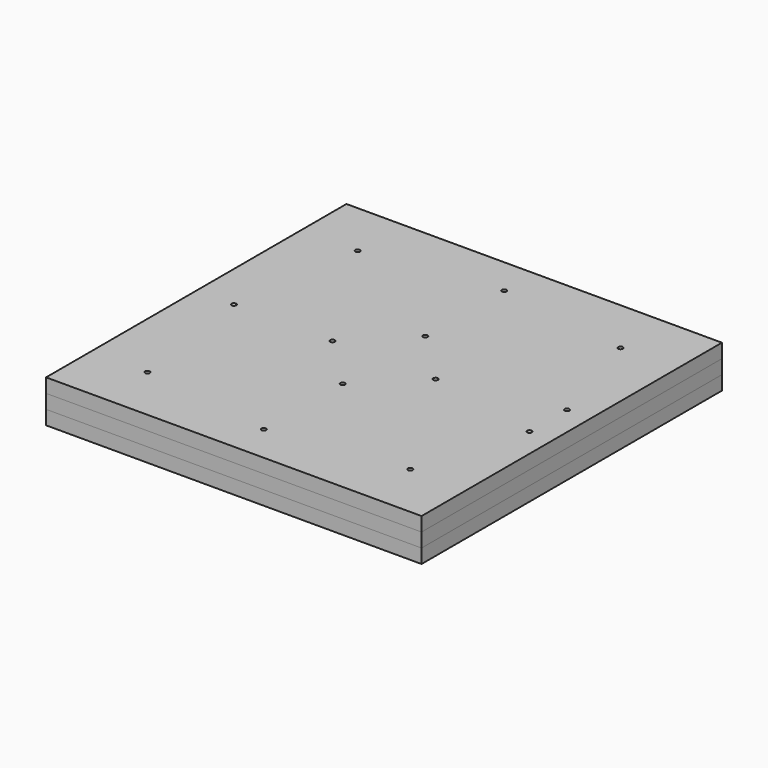
from build123d import *

# Parameters (mm, degrees)
F0_W          = 508
F0_H          = 508
F1_DEPTH      = 19.05
F2_W          = 508
F2_H          = 508
F2_R          = 177.8
F3_DEPTH      = 19.05
F2_R_2        = 85.725
F5_DEPTH      = 19.05
F7_W          = 508
F7_H          = 508
F8_DEPTH      = 19.05
F6_R          = 3.175
F9_DEPTH      = 25.4
F9_DEPTH_BACK = 44.45
F10_DEPTH     = 50.8
F11_R         = 4.7625
F12_DEPTH     = 19.05


with BuildPart() as f1:
    # F0 (on Top) → F1 (new body)
    with BuildSketch(Plane.XY):
        Rectangle(F0_W, F0_H)
    extrude(amount=F1_DEPTH)


with BuildPart() as f3:
    # F2 (on face) → F3 (new body)
    with BuildSketch(Plane.XY.offset(19.05)):
        Rectangle(F2_W, F2_H)
        Circle(F2_R, mode=Mode.SUBTRACT)
    extrude(amount=F3_DEPTH)

    # F4 (on face) → F5 (cut)
    with BuildSketch(Plane.XY.offset(38.1)):
        with BuildLine():
            Line((-165.1, 152.4), (-165.1, 65.9911357684))
            ThreePointArc((-165.1, 65.9911357684), (-125.723585695, 125.723585695), (-65.9911357684, 165.1))
            Line((-65.9911357684, 165.1), (-152.4, 165.1))
            ThreePointArc((-152.4, 165.1), (-161.3802561211, 161.3802561211), (-165.1, 152.4))
        make_face()
        with BuildLine():
            ThreePointArc((65.9911357684, 165.1), (125.723585695, 125.723585695), (165.1, 65.9911357684))
            Line((165.1, 65.9911357684), (165.1, 152.4))
            ThreePointArc((165.1, 152.4), (161.3802561211, 161.3802561211), (152.4, 165.1))
            Line((152.4, 165.1), (65.9911357684, 165.1))
        make_face()
        with BuildLine():
            Line((65.9911357684, -165.1), (152.4, -165.1))
            ThreePointArc((152.4, -165.1), (161.3802561211, -161.3802561211), (165.1, -152.4))
            Line((165.1, -152.4), (165.1, -65.9911357684))
            ThreePointArc((165.1, -65.9911357684), (125.723585695, -125.723585695), (65.9911357684, -165.1))
        make_face()
        with BuildLine():
            Line((-152.4, -165.1), (-65.9911357684, -165.1))
            ThreePointArc((-65.9911357684, -165.1), (-125.723585695, -125.723585695), (-165.1, -65.9911357684))
            Line((-165.1, -65.9911357684), (-165.1, -152.4))
            ThreePointArc((-165.1, -152.4), (-161.3802561211, -161.3802561211), (-152.4, -165.1))
        make_face()
        with BuildLine():
            ThreePointArc((177.8, 0), (174.5961339778, -33.6010416505), (165.1, -65.9911357684))
            Line((165.1, -65.9911357684), (190.5, -65.9911357684))
            ThreePointArc((190.5, -65.9911357684), (199.4802561211, -62.2713918894), (203.2, -53.2911357684))
            Line((203.2, -53.2911357684), (203.2, 53.2911357684))
            ThreePointArc((203.2, 53.2911357684), (199.4802561211, 62.2713918894), (190.5, 65.9911357684))
            Line((190.5, 65.9911357684), (165.1, 65.9911357684))
            ThreePointArc((165.1, 65.9911357684), (174.5961339778, 33.6010416505), (177.8, 0))
        make_face()
    extrude(amount=-F5_DEPTH, mode=Mode.SUBTRACT)


with BuildPart() as f3b:
    # F2 (on face) → F3, piece 2 (new body)
    with BuildSketch(Plane.XY.offset(19.05)):
        Circle(F2_R_2)
    extrude(amount=F3_DEPTH)


with BuildPart() as f8:
    # F7 (on face) → F8 (new body)
    with BuildSketch(Plane.XY.offset(38.1)):
        Rectangle(F7_W, F7_H)
    extrude(amount=F8_DEPTH)


with BuildPart() as f9_tool:
    # F6 (on face) → F9 (new body, two sides)
    with BuildSketch(Plane.XY.offset(38.1)) as f9_sk:
        with Locations((177.8, -177.8)):
            Circle(F6_R)
        with Locations((222.25, -31.75)):
            Circle(F6_R)
        with Locations((222.25, 31.75)):
            Circle(F6_R)
        with Locations((177.8, 177.8)):
            Circle(F6_R)
        with Locations((0, 203.2)):
            Circle(F6_R)
        with Locations((-177.8, 177.8)):
            Circle(F6_R)
        with Locations((-203.2, 0)):
            Circle(F6_R)
        with Locations((-177.8, -177.8)):
            Circle(F6_R)
        with Locations((0, -203.2)):
            Circle(F6_R)
        with Locations((0, -69.85)):
            Circle(F6_R)
        with Locations((-69.85, 0)):
            Circle(F6_R)
        with Locations((0, 69.85)):
            Circle(F6_R)
        with Locations((69.85, 0)):
            Circle(F6_R)
    extrude(amount=F9_DEPTH)
    extrude(f9_sk.sketch, amount=-F9_DEPTH_BACK)


with BuildPart() as f1_1:
    add(f1.part)

    # F9: cut by f9_tool
    add(f9_tool.part, mode=Mode.SUBTRACT)


with BuildPart() as f3_1:
    add(f3.part)

    # F9: cut by f9_tool
    add(f9_tool.part, mode=Mode.SUBTRACT)


with BuildPart() as f3b_1:
    add(f3b.part)

    # F9: cut by f9_tool
    add(f9_tool.part, mode=Mode.SUBTRACT)


with BuildPart() as f8_1:
    add(f8.part)

    # F9: cut by f9_tool
    add(f9_tool.part, mode=Mode.SUBTRACT)


with BuildPart() as f10_tool:
    # F6 (on face) → F10 (new body)
    with BuildSketch(Plane.XY.offset(38.1)):
        Circle(F6_R)
    extrude(amount=-F10_DEPTH)


with BuildPart() as f1_2:
    add(f1_1.part)

    # F10: cut by f10_tool
    add(f10_tool.part, mode=Mode.SUBTRACT)

    # F11 (on face) → F12 (join)
    with BuildSketch(Plane.XY.offset(19.05)):
        with Locations((-139.7, 139.7)):
            Circle(F11_R)
        with Locations((-139.7, -139.7)):
            Circle(F11_R)
        with Locations((139.7, -139.7)):
            Circle(F11_R)
        with Locations((139.7, 139.7)):
            Circle(F11_R)
        with Locations((190.5, 50.8)):
            Circle(F11_R)
        with Locations((190.5, 31.75)):
            Circle(F11_R)
        with Locations((190.5, 12.7)):
            Circle(F11_R)
        with Locations((190.5, -12.7)):
            Circle(F11_R)
        with Locations((190.5, -31.75)):
            Circle(F11_R)
        with Locations((190.5, -50.8)):
            Circle(F11_R)
    extrude(amount=F12_DEPTH)


with BuildPart() as f3b_2:
    add(f3b_1.part)

    # F10: cut by f10_tool
    add(f10_tool.part, mode=Mode.SUBTRACT)


solid = Compound([f3_1.part, f8_1.part, f1_2.part, f3b_2.part])
